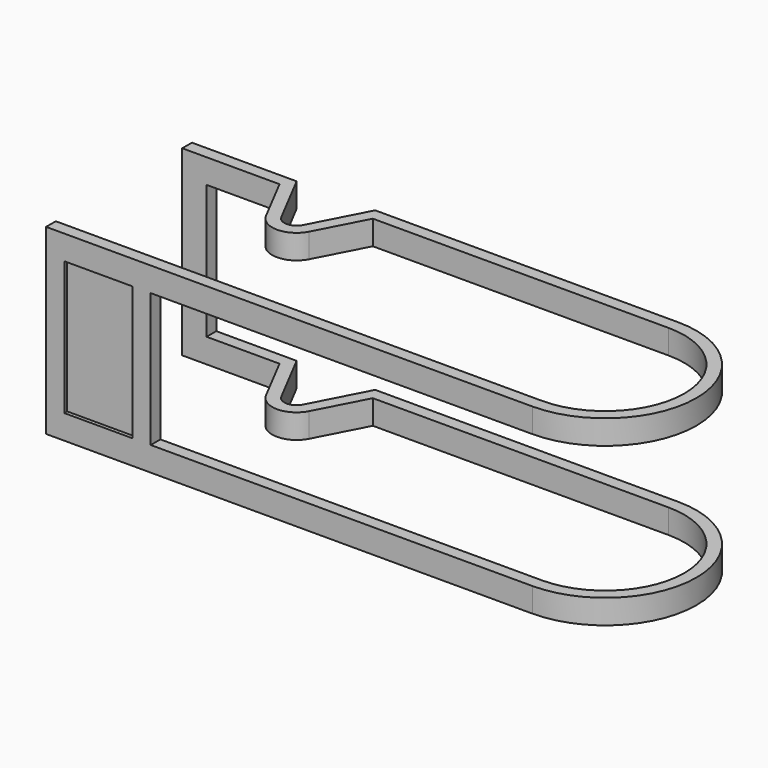
from build123d import *

# Parameters (mm, degrees)
F1_DEPTH = 15
F2_W     = 7.4999995679
F2_H     = 11
F2_W_2   = 24.9287047806
F2_W_3   = 6.4644805853
F3_DEPTH = 25
F4_W     = 6.6068146341
F4_H     = 11
F5_DEPTH = 3
F6_W     = 5.6068146341
F6_H     = 11
F7_DEPTH = 0.3


with BuildPart() as f1:
    # F0 (on Top) → F1 (new body)
    with BuildSketch(Plane.XY):
        with BuildLine():
            Line((0, 0.9999995679), (0, 0))
            Line((0, 0), (40, 0))
            ThreePointArc((40, 0), (47.4999995679, 7.4999995679), (40, 14.9999991357))
            Line((40, 14.9999991357), (15.0712952194, 14.9999991357))
            Line((15.0712952194, 14.9999991357), (12.7260657599, 10.4948552605))
            ThreePointArc((12.7260657599, 10.4948552605), (11.8390549267, 9.9566038737), (10.9520440936, 10.4948552605))
            Line((10.9520440936, 10.4948552605), (8.6068146341, 14.9999991357))
            Line((8.6068146341, 14.9999991357), (0, 14.9999991357))
            Line((0, 14.9999991357), (0, 13.9999995679))
            Line((0, 13.9999995679), (8, 13.9999995679))
            Line((8, 13.9999995679), (10.0650336437, 10.0331068468))
            ThreePointArc((10.0650336437, 10.0331068468), (11.8390549267, 8.9566043058), (13.6130762098, 10.0331068468))
            Line((13.6130762098, 10.0331068468), (15.6781098535, 13.9999995679))
            Line((15.6781098535, 13.9999995679), (40, 13.9999995679))
            ThreePointArc((40, 13.9999995679), (46.5, 7.4999995679), (40, 0.9999995679))
            Line((40, 0.9999995679), (0, 0.9999995679))
        make_face()
    extrude(amount=F1_DEPTH)

    # F2 (on face) → F3 (cut)
    with BuildSketch(Plane(origin=(0, 14.9999991357, 0), x_dir=(-1, 0, 0), z_dir=(0, 1, 0))):
        with Locations((-43.7499997839, 7.5)):
            Rectangle(F2_W, F2_H)
        with Locations((-27.5356476097, 7.5)):
            Rectangle(F2_W_2, F2_H)
        with Locations((-11.8390549267, 7.5)):
            Rectangle(F2_W_3, F2_H)
    extrude(amount=-F3_DEPTH, mode=Mode.SUBTRACT)

    # F4 (on face) → F5 (cut)
    with BuildSketch(Plane(origin=(0, 14.9999991357, 0), x_dir=(-1, 0, 0), z_dir=(0, 1, 0))):
        with Locations((-5.303407317, 7.5)):
            Rectangle(F4_W, F4_H)
    extrude(amount=-F5_DEPTH, mode=Mode.SUBTRACT)

    # F6 (on face) → F7 (cut)
    with BuildSketch(Plane.XZ):
        with Locations((4.303407317, 7.5)):
            Rectangle(F6_W, F6_H)
    extrude(amount=-F7_DEPTH, mode=Mode.SUBTRACT)


solid = f1.part
